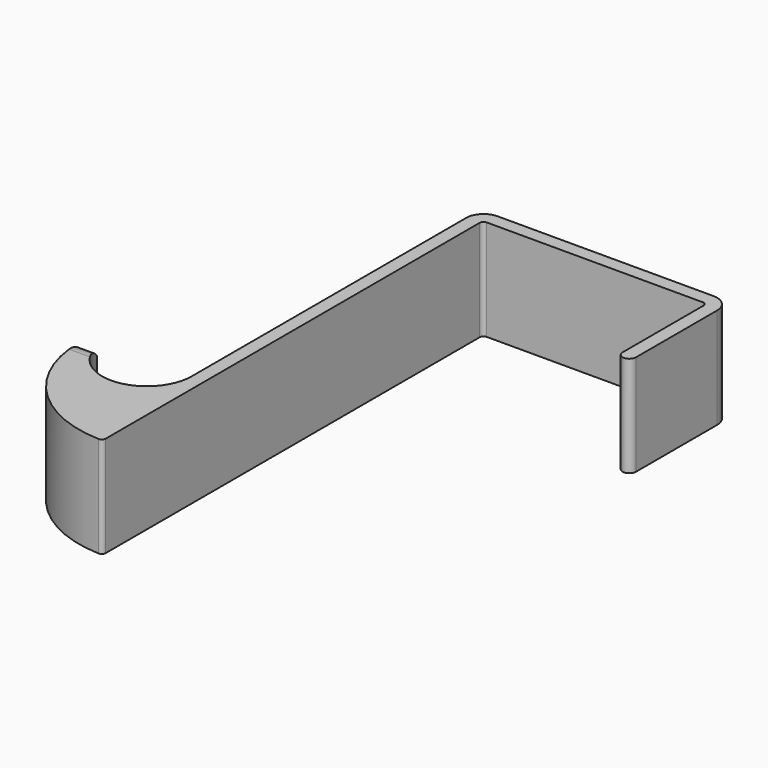
from build123d import *

# Parameters (mm, degrees)
F1_DEPTH = 9
F3_START = -10
F3_DEPTH = 20


with BuildPart() as f1:
    # F0 (on Top) → F1 (new body, symmetric)
    with BuildSketch(Plane.XY):
        with BuildLine():
            ThreePointArc((42.4, -21.2), (43.6, -22.4), (44.8, -21.2))
            Line((44.8, -21.2), (44.8, -3.1))
            ThreePointArc((44.8, -3.1), (43.8920310217, -0.9079689783), (41.7, 0))
            Line((41.7, 0), (3.1, 0))
            ThreePointArc((3.1, 0), (0.9079689783, -0.9079689783), (0, -3.1))
            Line((0, -3.1), (0, -64.4))
            ThreePointArc((0, -64.4), (-7.1872847082, -72.3586113019), (-15.8348734636, -66.0170212766))
            ThreePointArc((-15.8348734636, -66.0170212766), (-17.3482014958, -64.9072430222), (-18.6059763198, -66.3))
            ThreePointArc((-18.6059763198, -66.3), (-12.7073180305, -80.895204112), (1.6758691731, -87.2934912697))
            ThreePointArc((1.6758691731, -87.2934912697), (2.1863683898, -87.0973413167), (2.4, -86.5939073197))
            Line((2.4, -86.5939073197), (2.4, -3.1))
            ThreePointArc((2.4, -3.1), (2.6050252532, -2.6050252532), (3.1, -2.4))
            Line((3.1, -2.4), (41.7, -2.4))
            ThreePointArc((41.7, -2.4), (42.1949747468, -2.6050252532), (42.4, -3.1))
            Line((42.4, -3.1), (42.4, -21.2))
        make_face()
    extrude(amount=F1_DEPTH, both=True)

    # F2 (on Right) → F3 (cut)
    with BuildSketch(Plane.YZ.offset(F3_START)):
        with BuildLine():
            ThreePointArc((-64.7, -5), (-65.8715728753, -7.8284271247), (-68.7, -9))
            Line((-68.7, -9), (-68.7, -10))
            Line((-68.7, -10), (-63.7, -10))
            Line((-63.7, -10), (-63.7, 10))
            Line((-63.7, 10), (-68.7, 10))
            Line((-68.7, 10), (-68.7, 9))
            ThreePointArc((-68.7, 9), (-65.8715728753, 7.8284271247), (-64.7, 5))
            Line((-64.7, 5), (-64.7, -5))
        make_face()
    extrude(amount=-F3_DEPTH, mode=Mode.SUBTRACT)


solid = f1.part
